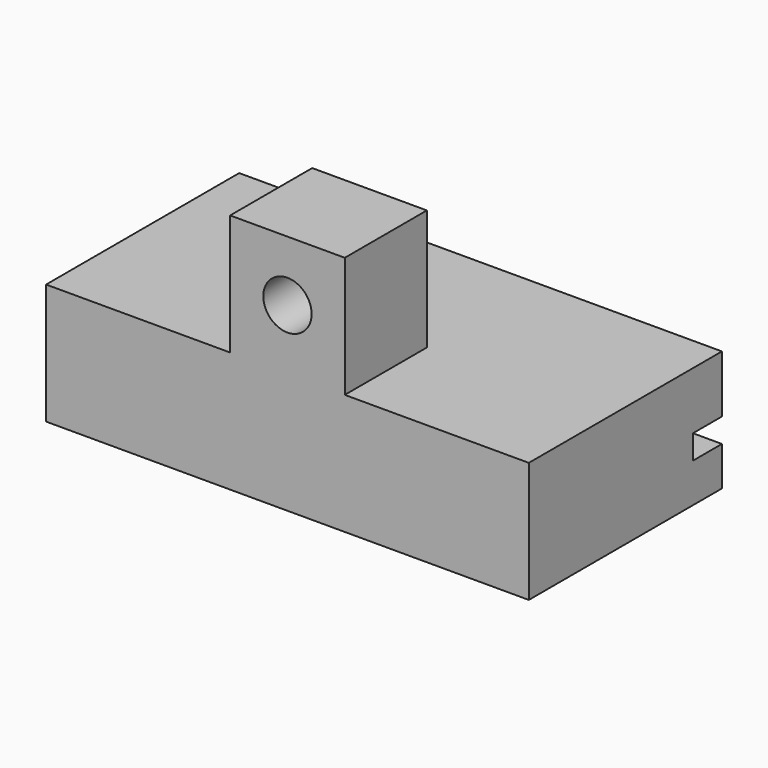
from build123d import *

# Parameters (mm, degrees)
F0_W     = 40
F0_H     = 20
F1_DEPTH = 10
F2_W     = 9.5
F2_H     = 8.5
F3_DEPTH = 10
F4_R     = 2
F5_DEPTH = 10
F6_W     = 40
F6_H     = 2
F7_DEPTH = 3


with BuildPart() as f1:
    # F0 (on Top) → F1 (new body)
    with BuildSketch(Plane.XY):
        Rectangle(F0_W, F0_H)
    extrude(amount=F1_DEPTH)

    # F2 (on face) → F3 (join)
    with BuildSketch(Plane.XY.offset(10)):
        with Locations((0, -5.75)):
            Rectangle(F2_W, F2_H)
    extrude(amount=F3_DEPTH)

    # F4 (on face) → F5 (cut)
    with BuildSketch(Plane.XZ.offset(10)):
        with Locations((0, 15)):
            Circle(F4_R)
    extrude(amount=-F5_DEPTH, mode=Mode.SUBTRACT)

    # F6 (on face) → F7 (cut)
    with BuildSketch(Plane(origin=(0, 10, 0), x_dir=(-1, 0, 0), z_dir=(0, 1, 0))):
        with Locations((0, 4.25)):
            Rectangle(F6_W, F6_H)
    extrude(amount=-F7_DEPTH, mode=Mode.SUBTRACT)


solid = f1.part
